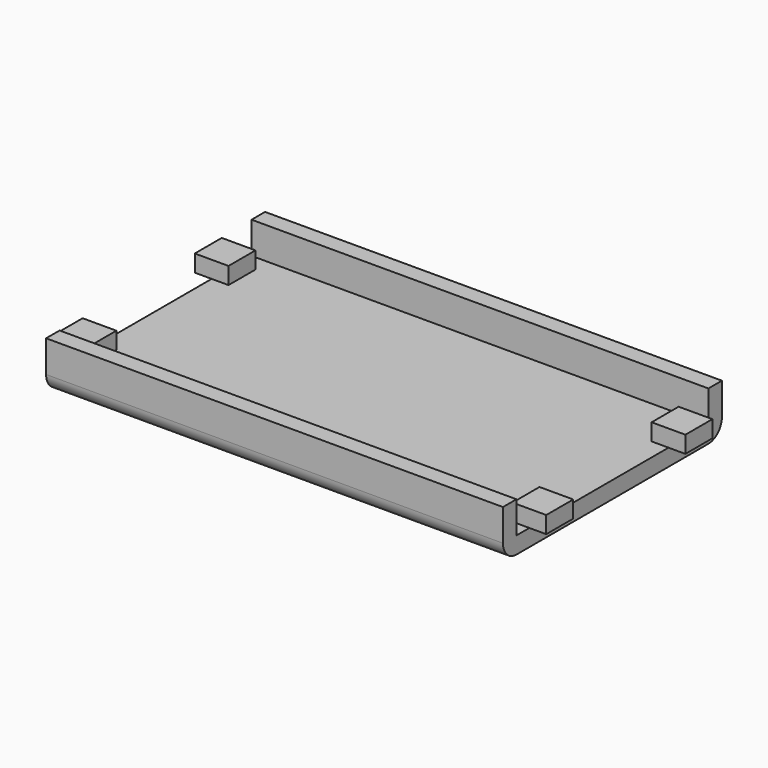
from build123d import *

# Parameters (mm, degrees)
F1_DEPTH = 34.3916
F2_START = 31.8516
F0_W     = 5.08
F0_H     = 2.54
F2_DEPTH = 5.08
F3_START = -31.8516
F3_DEPTH = 5.08


with BuildPart() as f1:
    # F0 (on Right) → F1 (new body, symmetric)
    with BuildSketch(Plane.YZ):
        with BuildLine():
            Line((82.1398573303, 169.3418), (79.5998573303, 169.3418))
            Line((79.5998573303, 169.3418), (79.5998573303, 164.5491375))
            ThreePointArc((79.5998573303, 164.5491375), (80.3438061061, 162.7530862758), (82.1398573303, 162.0091375))
            Line((82.1398573303, 162.0091375), (100.203, 162.0091375))
            Line((100.203, 162.0091375), (100.203, 164.5491375))
            Line((100.203, 164.5491375), (89.6502663064, 164.5491375))
            Line((89.6502663064, 164.5491375), (84.5702663064, 164.5491375))
            Line((84.5702663064, 164.5491375), (82.1398573303, 164.5491375))
            Line((82.1398573303, 164.5491375), (82.1398573303, 169.3418))
        make_face()
        with BuildLine():
            Line((120.8061426697, 169.3418), (118.2661426697, 169.3418))
            Line((118.2661426697, 169.3418), (118.2661426697, 164.5491375))
            Line((118.2661426697, 164.5491375), (115.8357336936, 164.5491375))
            Line((115.8357336936, 164.5491375), (110.7557336936, 164.5491375))
            Line((110.7557336936, 164.5491375), (100.203, 164.5491375))
            Line((100.203, 164.5491375), (100.203, 162.0091375))
            Line((100.203, 162.0091375), (118.2661426697, 162.0091375))
            ThreePointArc((118.2661426697, 162.0091375), (120.0621938939, 162.7530862758), (120.8061426697, 164.5491375))
            Line((120.8061426697, 164.5491375), (120.8061426697, 169.3418))
        make_face()
    extrude(amount=F1_DEPTH, both=True)

    # F0 (on Right) → F2 (join)
    with BuildSketch(Plane.YZ.offset(F2_START)):
        with Locations((87.1102663064, 165.8191375)):
            Rectangle(F0_W, F0_H)
        with Locations((113.2957336936, 165.8191375)):
            Rectangle(F0_W, F0_H)
    extrude(amount=F2_DEPTH)

    # F0 (on Right) → F3 (join)
    with BuildSketch(Plane.YZ.offset(F3_START)):
        with Locations((87.1102663064, 165.8191375)):
            Rectangle(F0_W, F0_H)
        with Locations((113.2957336936, 165.8191375)):
            Rectangle(F0_W, F0_H)
    extrude(amount=-F3_DEPTH)


solid = f1.part
